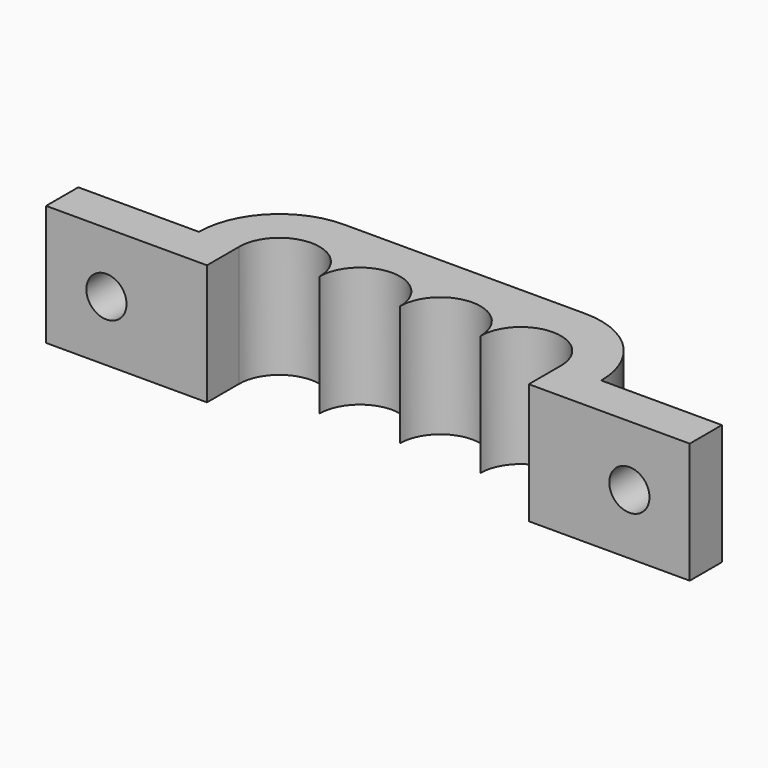
from build123d import *

# Parameters (mm, degrees)
F0_W     = 9.525
F0_H     = 3.175
F0_W_2   = 3.175
F1_DEPTH = 9.525
F2_R     = 1.5875
F3_R     = 1.5875
F4_DEPTH = 25.4


with BuildPart() as f1:
    # F0 (on Top) → F1 (new body)
    with BuildSketch(Plane.XY):
        with Locations((-4.176419, -42.8625)):
            Rectangle(F0_W, F0_H)
        with Locations((2.173581, -42.8625)):
            Rectangle(F0_W_2, F0_H)
        with BuildLine():
            Line((29.161081, -41.275), (32.336081, -41.275))
            ThreePointArc((32.336081, -41.275), (30.476209, -36.784872), (25.986081, -34.925))
            Line((25.986081, -34.925), (6.936081, -34.925))
            ThreePointArc((6.936081, -34.925), (2.445953, -36.784872), (0.586081, -41.275))
            Line((0.586081, -41.275), (3.761081, -41.275))
            ThreePointArc((3.761081, -41.275), (6.936081, -38.1), (10.111081, -41.275))
            ThreePointArc((10.111081, -41.275), (13.286081, -38.1), (16.461081, -41.275))
            ThreePointArc((16.461081, -41.275), (19.636081, -38.1), (22.811081, -41.275))
            ThreePointArc((22.811081, -41.275), (25.986081, -38.1), (29.161081, -41.275))
        make_face()
        with Locations((30.748581, -42.8625)):
            Rectangle(F0_W_2, F0_H)
        with Locations((37.098581, -42.8625)):
            Rectangle(F0_W, F0_H)
    extrude(amount=F1_DEPTH)

    # F2 (on face) + F3 (on face) → F4 (cut)
    with BuildSketch(Plane(origin=(0, -41.275, 0), x_dir=(-1, 0, 0), z_dir=(0, 1, 0))):
        with Locations((4.176419, 4.7625)):
            Circle(F2_R)
    with BuildSketch(Plane(origin=(0, -41.275, 0), x_dir=(-1, 0, 0), z_dir=(0, 1, 0))):
        with Locations((-37.098581, 4.7625)):
            Circle(F3_R)
    extrude(amount=-F4_DEPTH, mode=Mode.SUBTRACT)


solid = f1.part
